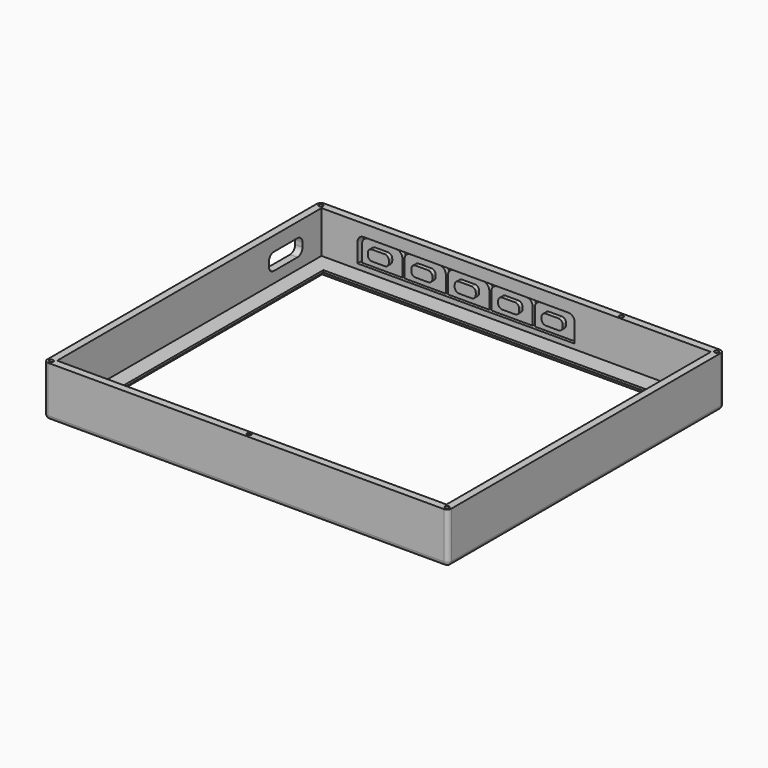
from build123d import *

# Parameters (mm, degrees)
SKETCH009_R      = 0.5
EXTRUDE011_DEPTH = 8
SKETCH010_R      = 0.95
EXTRUDE010_DEPTH = 0.8
SKETCH006_W      = 5
SKETCH006_H      = 2.5
EXTRUDE007_DEPTH = 3
FILLET003_R      = 1
EXTRUDE005_DEPTH = 4
EXTRUDE004_DEPTH = 1
SKETCH003_W      = 62
SKETCH003_H      = 1.7
EXTRUDE003_DEPTH = 4
SKETCH002_W      = 10
SKETCH002_H      = 4
EXTRUDE002_DEPTH = 10
SKETCH_W         = 96
SKETCH_H         = 82
SKETCH_W_2       = 92.5
SKETCH_H_2       = 78.5
EXTRUDE001_DEPTH = 10
FILLET_R         = 1.5
SKETCH001_W      = 96
SKETCH001_H      = 82
SKETCH001_W_2    = 84.8
SKETCH001_H_2    = 63.6
EXTRUDE_DEPTH    = 2
CHAMFER_SIZE     = 1.5
FILLET001_R      = 1
FILLET002_R      = 1.5


with BuildPart() as extrude011:
    # Sketch009 (on Face5 of Fusion002) → Extrude011 (new body)
    with BuildSketch(Plane.XY.offset(12)):
        with Locations((24.37, 40)):
            Circle(SKETCH009_R)
        with Locations((0, -40)):
            Circle(SKETCH009_R)
        with Locations((47, -40)):
            Circle(SKETCH009_R)
        with Locations((-47, -40)):
            Circle(SKETCH009_R)
        with Locations((-47, 40)):
            Circle(SKETCH009_R)
        with Locations((47, 40)):
            Circle(SKETCH009_R)
    extrude(amount=-EXTRUDE011_DEPTH)


with BuildPart() as fusion003:
    # Sketch010 (on Face5 of Fusion002) → Extrude010 (new body)
    with BuildSketch(Plane.XY.offset(12)):
        with Locations((24.37, 40)):
            Circle(SKETCH010_R)
        with Locations((0, -40)):
            Circle(SKETCH010_R)
        with Locations((47, -40)):
            Circle(SKETCH010_R)
        with Locations((-47, -40)):
            Circle(SKETCH010_R)
        with Locations((-47, 40)):
            Circle(SKETCH010_R)
        with Locations((47, 40)):
            Circle(SKETCH010_R)
    extrude(amount=-EXTRUDE010_DEPTH)

    # Fusion003: union Extrude011
    add(extrude011.part)


with BuildPart() as fillet003:
    # Sketch006 (on Face2 of Part__Feature059) → Extrude007 (new body)
    with BuildSketch(Plane(origin=(0, 39, 0), x_dir=(-1, 0, 0), z_dir=(0, 1, 0))):
        with Locations((-8.74, 4.15)):
            Rectangle(SKETCH006_W, SKETCH006_H)
        with Locations((11.9, 4.15)):
            Rectangle(SKETCH006_W, SKETCH006_H)
        with Locations((22.22, 4.15)):
            Rectangle(SKETCH006_W, SKETCH006_H)
        with Locations((32.54, 4.15)):
            Rectangle(SKETCH006_W, SKETCH006_H)
        with Locations((1.58, 4.15)):
            Rectangle(SKETCH006_W, SKETCH006_H)
    extrude(amount=EXTRUDE007_DEPTH)

    # Fillet003
    fillet003_edges = [fillet003.edges().sort_by_distance(p)[0] for p in [
        (-30.04, 40.5, 5.4),
        (-35.04, 40.5, 5.4),
        (-32.54, 42, 5.4),
        (-35.04, 40.5, 2.9),
        (-35.04, 42, 4.15),
        (-30.04, 40.5, 2.9),
        (-32.54, 42, 2.9),
        (-30.04, 42, 4.15),
        (-19.72, 40.5, 5.4),
        (-24.72, 40.5, 5.4),
        (-22.22, 42, 5.4),
        (-24.72, 40.5, 2.9),
        (-24.72, 42, 4.15),
        (-19.72, 40.5, 2.9),
        (-22.22, 42, 2.9),
        (-19.72, 42, 4.15),
        (-9.4, 40.5, 5.4),
        (-14.4, 40.5, 5.4),
        (-11.9, 42, 5.4),
        (-14.4, 40.5, 2.9),
        (-14.4, 42, 4.15),
        (-9.4, 40.5, 2.9),
        (-11.9, 42, 2.9),
        (-9.4, 42, 4.15),
        (11.24, 40.5, 5.4),
        (6.24, 40.5, 5.4),
        (8.74, 42, 5.4),
        (6.24, 40.5, 2.9),
        (6.24, 42, 4.15),
        (11.24, 40.5, 2.9),
        (8.74, 42, 2.9),
        (11.24, 42, 4.15),
        (0.92, 40.5, 5.4),
        (-4.08, 40.5, 5.4),
        (-1.58, 42, 5.4),
        (-4.08, 40.5, 2.9),
        (-4.08, 42, 4.15),
        (0.92, 40.5, 2.9),
        (-1.58, 42, 2.9),
        (0.92, 42, 4.15),
    ]]
    fillet(fillet003_edges, radius=FILLET003_R)


with BuildPart() as extrude005:
    # Sketch005 (on Face2 of Part__Feature059) → Extrude005 (new body)
    with BuildSketch(Plane(origin=(0, 39, 0), x_dir=(-1, 0, 0), z_dir=(0, 1, 0))):
        Polygon((-13.9, 7.2), (37.7, 7.2), (37.7, 1.2), (37.2, 1.2), (37.2, 6.7), (27.63, 6.7), (27.63, 1.2), (27.13, 1.2), (27.13, 6.7), (17.31, 6.7), (17.31, 1.2), (16.81, 1.2), (16.81, 6.7), (6.99, 6.7), (6.99, 1.2), (6.49, 1.2), (6.49, 6.7), (-3.33, 6.7), (-3.33, 1.2), (-3.83, 1.2), (-3.83, 6.7), (-13.4, 6.7), (-13.4, 1.2), (-13.9, 1.2), align=None)
    extrude(amount=EXTRUDE005_DEPTH)


with BuildPart() as extrude004:
    # Sketch004 (on Face2 of Part__Feature059) → Extrude004 (new body)
    with BuildSketch(Plane(origin=(0, 39, 0), x_dir=(-1, 0, 0), z_dir=(0, 1, 0))):
        Polygon((-13.9, 7.2), (37.7, 7.2), (37.7, 1.2), (27.38, 1.2), (17.06, 1.2), (6.74, 1.2), (-3.58, 1.2), (-13.9, 1.2), align=None)
    extrude(amount=EXTRUDE004_DEPTH)


with BuildPart() as extrude003:
    # Sketch003 → Extrude003 (new body)
    with BuildSketch(Plane.XY):
        with Locations((11, -39.15)):
            Rectangle(SKETCH003_W, SKETCH003_H)
    extrude(amount=EXTRUDE003_DEPTH)


with BuildPart() as usb:
    # Sketch002 (on Face4 of Extrude001) → Extrude002 (new body)
    with BuildSketch(Plane(origin=(-48, 0, 0), x_dir=(0, -1, 0), z_dir=(-1, 0, 0))):
        with Locations((-28.62, 4.6)):
            Rectangle(SKETCH002_W, SKETCH002_H)
    extrude(amount=-EXTRUDE002_DEPTH)


with BuildPart() as fillet_body:
    # Sketch → Extrude001 (new body)
    with BuildSketch(Plane.XY):
        Rectangle(SKETCH_W, SKETCH_H)
        Rectangle(SKETCH_W_2, SKETCH_H_2, mode=Mode.SUBTRACT)
    extrude(amount=EXTRUDE001_DEPTH)

    # Cut: cut usb
    add(usb.part, mode=Mode.SUBTRACT)

    # Fillet
    fillet_edges = [fillet_body.edges().sort_by_distance(p)[0] for p in [
        (-47.125, 33.62, 6.6),
        (-47.125, 33.62, 2.6),
        (-47.125, 23.62, 2.6),
        (-47.125, 23.62, 6.6),
    ]]
    fillet(fillet_edges, radius=FILLET_R)


with BuildPart() as font001:
    # Sketch001 (on Face4 of Part__Feature059) → Extrude (new body)
    with BuildSketch(Plane(origin=(0, 0, 0), x_dir=(1, 0, 0), z_dir=(0, 0, -1))):
        Rectangle(SKETCH001_W, SKETCH001_H)
        with Locations((0, -3.2)):
            Rectangle(SKETCH001_W_2, SKETCH001_H_2, mode=Mode.SUBTRACT)
    extrude(amount=EXTRUDE_DEPTH)

    # Chamfer
    chamfer_edges = [font001.edges().sort_by_distance(p)[0] for p in [
        (0, -28.6, -2),
        (42.4, 3.2, -2),
        (0, 35, -2),
        (-42.4, 3.2, -2),
    ]]
    chamfer(chamfer_edges, length=CHAMFER_SIZE)

    # Fusion: union Fillet body
    add(fillet_body.part)

    # Fillet001
    fillet001_edges = [font001.edges().sort_by_distance(p)[0] for p in [
        (0, -41, -2),
        (48, 0, -2),
        (0, 41, -2),
        (-48, 0, -2),
        (-48, -41, -1),
        (48, -41, -1),
        (48, 41, -1),
        (-48, 41, -1),
    ]]
    fillet(fillet001_edges, radius=FILLET001_R)

    # Cut001: cut Extrude003
    add(extrude003.part, mode=Mode.SUBTRACT)

    # Cut002: cut Extrude004
    add(extrude004.part, mode=Mode.SUBTRACT)

    # Cut003: cut Extrude005
    add(extrude005.part, mode=Mode.SUBTRACT)

    # Fillet002
    fillet002_edges = [font001.edges().sort_by_distance(p)[0] for p in [
        (13.4, 40.5, 6.7),
        (3.83, 40.5, 6.7),
        (3.33, 40.5, 6.7),
        (-6.49, 40.5, 6.7),
        (-6.99, 40.5, 6.7),
        (-16.81, 40.5, 6.7),
        (-17.31, 40.5, 6.7),
        (-27.13, 40.5, 6.7),
        (-27.63, 40.5, 6.7),
        (-37.2, 40.5, 6.7),
        (-37.7, 40.5, 7.2),
        (13.9, 40.5, 7.2),
    ]]
    fillet(fillet002_edges, radius=FILLET002_R)

    # Fusion001: union Fillet003
    add(fillet003.part)

    # Cut005: cut Fusion003
    add(fusion003.part, mode=Mode.SUBTRACT)


solid = font001.part
